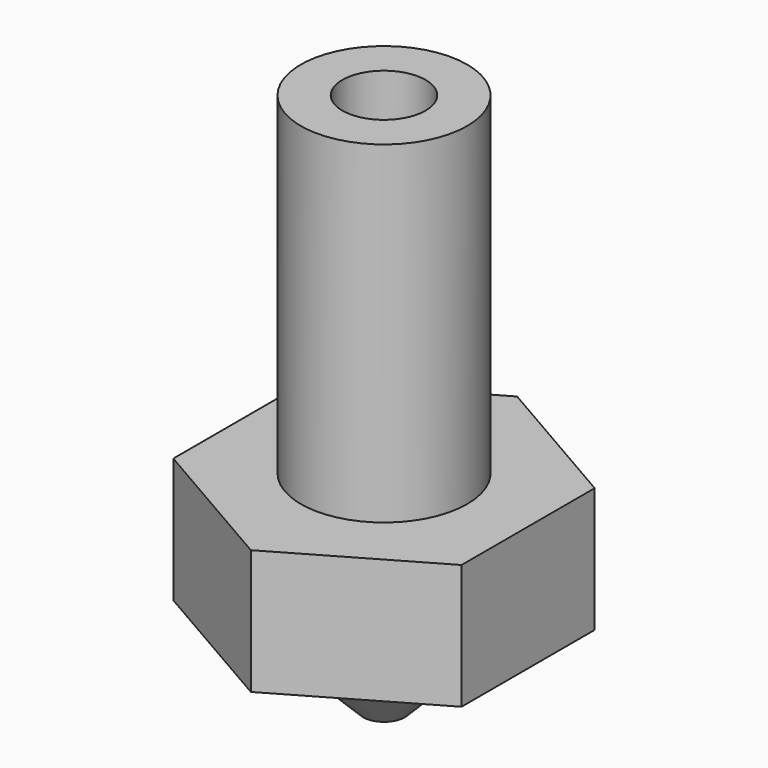
from build123d import *

# Parameters (mm, degrees)
F3_DEPTH = 25


with BuildPart() as f1:
    # F0 (on Front) → F1 (revolve)
    with BuildSketch(Plane.XZ):
        Polygon((0.2, 3), (0.2, 0), (0.5, 0), (2.5, 2), (4, 2), (4, 5), (2, 5), (2, 13), (1, 13), (1, 3.8), align=None)
    revolve(axis=Axis((0, 0, 5.0693617847), (0, 0, 1)))

    # F2 (on face) → F3 (cut)
    with BuildSketch(Plane(origin=(0, 0, 2), x_dir=(1, 0, 0), z_dir=(0, 0, -1))):
        with BuildLine():
            Line((-3.4641016151, 2), (0, 4))
            ThreePointArc((0, 4), (-2, 3.4641016151), (-3.4641016151, 2))
        make_face()
        with BuildLine():
            Line((0, 4), (3.4641016151, 2))
            ThreePointArc((3.4641016151, 2), (2, 3.4641016151), (0, 4))
        make_face()
        with BuildLine():
            ThreePointArc((4, 0), (3.8637033052, 1.0352761804), (3.4641016151, 2))
            Line((3.4641016151, 2), (3.4641016151, -2))
            ThreePointArc((3.4641016151, -2), (3.8637033052, -1.0352761804), (4, 0))
        make_face()
        with BuildLine():
            ThreePointArc((0, -4), (2, -3.4641016151), (3.4641016151, -2))
            Line((3.4641016151, -2), (0, -4))
        make_face()
        with BuildLine():
            ThreePointArc((-3.4641016151, -2), (-2, -3.4641016151), (0, -4))
            Line((0, -4), (-3.4641016151, -2))
        make_face()
        with BuildLine():
            Line((-3.4641016151, -2), (-3.4641016151, 2))
            ThreePointArc((-3.4641016151, 2), (-4, 0), (-3.4641016151, -2))
        make_face()
    extrude(amount=-F3_DEPTH, mode=Mode.SUBTRACT)


solid = f1.part
